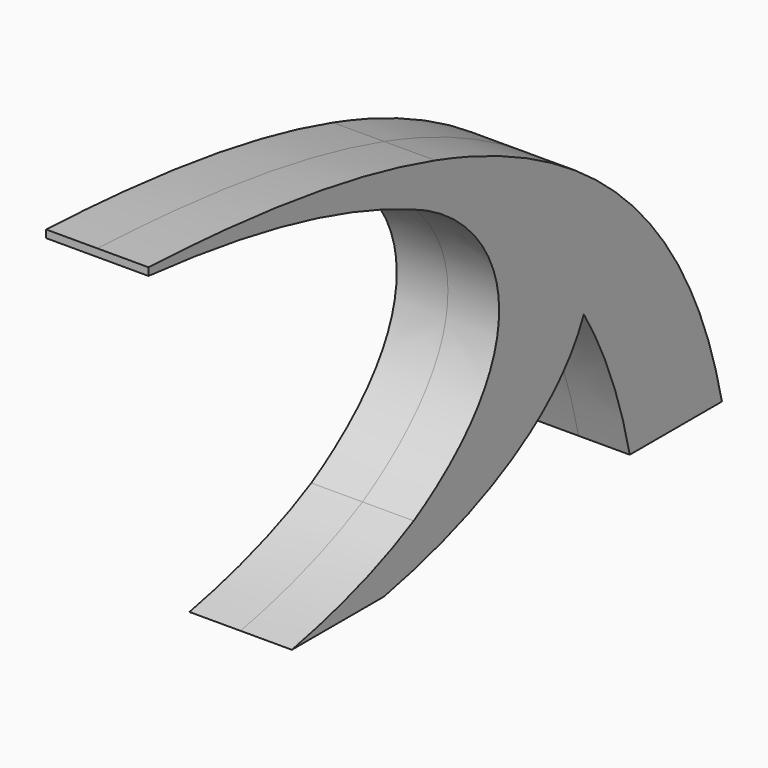
from build123d import *

# Parameters (mm, degrees)
F1_DEPTH      = 38.1
F1_DEPTH_BACK = 38.1


with BuildPart() as f1:
    # F0 (on Right) → F1 (new body, two sides)
    with BuildSketch(Plane.YZ) as f1_sk:
        with BuildLine():
            add(Edge.make_bspline(
                [(89.0512747676, 84.3127688874), (51.5025046877, 109.6568065781), (7.9497262135, 128.8361399685), (-40.2992134272, 143.2426060549)],
                knots=[251.2899531871, 251.2899531871, 251.2899531871, 251.2899531871, 389.6266891942, 389.6266891942, 389.6266891942, 389.6266891942], degree=3))
            add(Edge.make_bspline(
                [(-40.2992134273, 143.2426060546), (-20.8577433202, 122.6663541214), (-6.4848342863, 102.9965586878), (3.3262747677, 84.3127688872)],
                knots=[0, 0, 0, 0, 44.9944338672, 44.9944338672, 44.9944338672, 44.9944338672], degree=3))
            add(Edge.make_bspline(
                [(97.9367360944, -13.693555973), (73.5382257251, 26.3390121062), (41.5418172622, 58.5186843595), (3.3262747677, 84.3127688872)],
                knots=[110.4967021115, 110.4967021115, 110.4967021115, 110.4967021115, 251.2899531868, 251.2899531868, 251.2899531868, 251.2899531868], degree=3))
            add(Edge.make_bspline(
                [(89.0512747676, 84.3127688874), (108.3054185182, 47.6461318492), (109.9905052366, 14.7769408359), (97.9367360944, -13.693555973)],
                knots=[44.994433867, 44.994433867, 44.994433867, 44.994433867, 133.2952867965, 133.2952867965, 133.2952867965, 133.2952867965], degree=3))
        make_face()
        with BuildLine():
            add(Edge.make_bspline(
                [(226.4007865727, -123.1679881383), (205.6551866214, -28.1042958821), (157.2589609394, 38.2750913429), (89.0512747676, 84.3127688874)],
                knots=[0, 0, 0, 0, 251.2899531871, 251.2899531871, 251.2899531871, 251.2899531871], degree=3))
            add(Edge.make_bspline(
                [(89.0512747676, 84.3127688874), (108.3054185182, 47.6461318492), (109.9905052366, 14.7769408359), (97.9367360944, -13.693555973)],
                knots=[44.994433867, 44.994433867, 44.994433867, 44.994433867, 133.2952867965, 133.2952867965, 133.2952867965, 133.2952867965], degree=3))
            add(Edge.make_bspline(
                [(140.6757865727, -123.1679881383), (131.5535739698, -81.366776623), (117.0850611145, -45.111729188), (97.9367360944, -13.693555973)],
                knots=[0, 0, 0, 0, 110.4967021115, 110.4967021115, 110.4967021115, 110.4967021115], degree=3))
            Line((140.6757865727, -123.1679881383), (226.4007865727, -123.1679881383))
        make_face()
        with BuildLine():
            add(Edge.make_bspline(
                [(-40.2992134273, 143.2426060546), (-20.8577433202, 122.6663541214), (-6.4848342863, 102.9965586878), (3.3262747677, 84.3127688872)],
                knots=[0, 0, 0, 0, 44.9944338672, 44.9944338672, 44.9944338672, 44.9944338672], degree=3))
            add(Edge.make_bspline(
                [(-40.2992134272, 143.2426060549), (-118.6758921642, 166.644798364), (-209.444563868, 177.4525894237), (-306.9992134273, 181.6320118621)],
                knots=[389.6266891942, 389.6266891942, 389.6266891942, 389.6266891942, 614.3440404205, 614.3440404205, 614.3440404205, 614.3440404205], degree=3))
            Line((-306.9992134273, 181.6320118621), (-306.9992134273, 175.9282581051))
            add(Edge.make_bspline(
                [(-62.3141094232, 120.0935377835), (-132.1010704471, 150.6607475907), (-215.4464728571, 167.3740709192), (-306.9992134273, 175.9282581051)],
                knots=[325.7434997871, 325.7434997871, 325.7434997871, 325.7434997871, 547.0018290671, 547.0018290671, 547.0018290671, 547.0018290671], degree=3))
            add(Edge.make_bspline(
                [(-62.3141094232, 120.0935377835), (-57.569536239, 118.1678217564), (-52.9586357331, 116.0573946954), (-48.5021746362, 113.7760695913)],
                knots=[0, 0, 0, 0, 11.285021106, 11.285021106, 11.285021106, 11.285021106], degree=3))
            add(Edge.make_bspline(
                [(3.3262747677, 84.3127688872), (-12.8680482417, 95.2433408301), (-30.1791713746, 105.0272217507), (-48.5021746362, 113.7760695913)],
                knots=[251.2899531868, 251.2899531868, 251.2899531868, 251.2899531868, 310.952887078, 310.952887078, 310.952887078, 310.952887078], degree=3))
        make_face()
        with BuildLine():
            add(Edge.make_bspline(
                [(3.3262747677, 84.3127688872), (41.6453572527, 11.3398074654), (10.3770996492, -46.5922688635), (-60.2863327619, -84.7440264271)],
                knots=[44.9944338672, 44.9944338672, 44.9944338672, 44.9944338672, 220.7284322597, 220.7284322597, 220.7284322597, 220.7284322597], degree=3))
            add(Edge.make_bspline(
                [(3.3262747677, 84.3127688872), (-12.8680482417, 95.2433408301), (-30.1791713746, 105.0272217507), (-48.5021746362, 113.7760695913)],
                knots=[251.2899531868, 251.2899531868, 251.2899531868, 251.2899531868, 310.952887078, 310.952887078, 310.952887078, 310.952887078], degree=3))
            add(Edge.make_bspline(
                [(-48.5021746362, 113.7760695913), (27.9357955296, 74.6463977604), (58.938174531, -14.7609439509), (-60.2863327619, -84.7440264271)],
                knots=[11.285021106, 11.285021106, 11.285021106, 11.285021106, 204.8476008888, 204.8476008888, 204.8476008888, 204.8476008888], degree=3))
        make_face()
        with BuildLine():
            add(Edge.make_bspline(
                [(97.9367360944, -13.693555973), (73.5382257251, 26.3390121062), (41.5418172622, 58.5186843595), (3.3262747677, 84.3127688872)],
                knots=[110.4967021115, 110.4967021115, 110.4967021115, 110.4967021115, 251.2899531868, 251.2899531868, 251.2899531868, 251.2899531868], degree=3))
            add(Edge.make_bspline(
                [(3.3262747677, 84.3127688872), (41.6453572527, 11.3398074654), (10.3770996492, -46.5922688635), (-60.2863327619, -84.7440264271)],
                knots=[44.9944338672, 44.9944338672, 44.9944338672, 44.9944338672, 220.7284322597, 220.7284322597, 220.7284322597, 220.7284322597], degree=3))
            add(Edge.make_bspline(
                [(-60.2863327619, -84.7440264271), (-91.3257478525, -101.5024571889), (-129.9663361934, -114.4443385734), (-173.6492134273, -123.1679881383)],
                knots=[220.7284322597, 220.7284322597, 220.7284322597, 220.7284322597, 297.9208404899, 297.9208404899, 297.9208404899, 297.9208404899], degree=3))
            Line((-173.6492134273, -123.1679881383), (-87.9242134273, -123.1679881383))
            add(Edge.make_bspline(
                [(97.9367360944, -13.693555973), (75.4640378893, -66.7731259386), (5.2367335677, -104.5633653163), (-87.9242134273, -123.1679881383)],
                knots=[133.2952867965, 133.2952867965, 133.2952867965, 133.2952867965, 297.9208404899, 297.9208404899, 297.9208404899, 297.9208404899], degree=3))
        make_face()
    extrude(amount=F1_DEPTH)
    extrude(f1_sk.sketch, amount=-F1_DEPTH_BACK)


solid = f1.part
